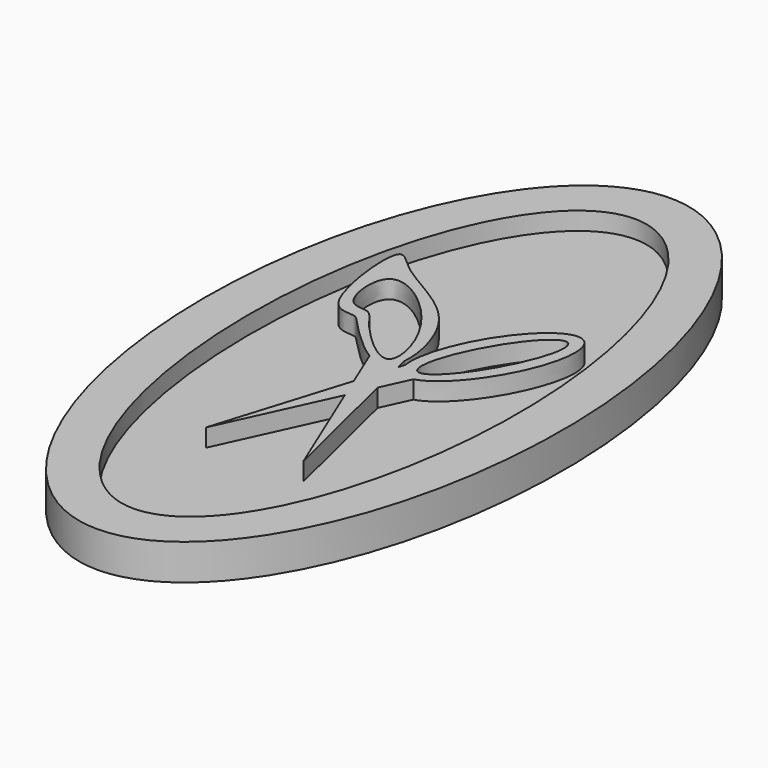
from build123d import *

# Parameters (mm, degrees)
F1_DEPTH = 2.54
F3_DEPTH = 1.27
F5_DEPTH = 1.524


with BuildPart() as f1:
    # F0 (on Top) → F1 (new body)
    with BuildSketch(Plane.XY):
        with BuildLine():
            add(Edge.make_bspline(
                [(0, -25.4), (21.9970452561, -25.4), (10.9985226281, 12.7), (0, 50.8), (-10.9985226281, 12.7), (-21.9970452561, -25.4), (0, -25.4)],
                knots=[0, 0, 0, 2.0943951024, 2.0943951024, 4.1887902048, 4.1887902048, 6.2831853072, 6.2831853072, 6.2831853072], degree=2, weights=[1, 0.5, 1, 0.5, 1, 0.5, 1]))
        make_face()
    extrude(amount=F1_DEPTH)

    # F2 (on face) → F3 (cut)
    with BuildSketch(Plane.XY.offset(2.54)):
        with BuildLine():
            add(Edge.make_bspline(
                [(0, 22.225), (-16.4977839421, 22.225), (-8.248891971, -11.1125), (0, -44.45), (8.248891971, -11.1125), (16.4977839421, 22.225), (0, 22.225)],
                knots=[0, 0, 0, 2.0943951024, 2.0943951024, 4.1887902048, 4.1887902048, 6.2831853072, 6.2831853072, 6.2831853072], degree=2, weights=[1, 0.5, 1, 0.5, 1, 0.5, 1]))
        make_face()
    extrude(amount=-F3_DEPTH, mode=Mode.SUBTRACT)

    # F4 (on face) → F5 (join)
    with BuildSketch(Plane.XY.offset(2.54)):
        with BuildLine():
            add(Edge.make_bspline(
                [(0.6860438475, 0.9545434875), (0.7996234857, 2.1607432292), (-0.4319348292, 7.2345888125), (-5.7333299278, 8.9791487851), (-7.3120661829, 11.090392902), (-7.5713020162, 10.7260432266)],
                knots=[0.5861109288, 0.5861109288, 0.5861109288, 0.5861109288, 0.7046767141, 0.8989197638, 1, 1, 1, 1], degree=3))
            add(Edge.make_bspline(
                [(-7.5713020162, 10.7260432266), (-8.0621440854, 10.0361766048), (-7.2897990447, 3.1838316578), (-4.8401825191, 3.6306384153), (-4.410895876, 3.0337005261), (-2.2907774828, 0.9019950954), (-1.2098269229, 0.2376647049)],
                knots=[0, 0, 0, 0, 0.1913872463, 0.2859264494, 0.3602997552, 0.4747041638, 0.4747041638, 0.4747041638, 0.4747041638], degree=3))
            add(Edge.make_bspline(
                [(-1.2098269229, 0.2376647049), (-0.6952717942, -0.0785704887), (0.2628386826, -0.4345985633), (0.6314908564, 0.3751984145), (0.6860438475, 0.9545434875)],
                knots=[0.4747041638, 0.4747041638, 0.4747041638, 0.4747041638, 0.5291630608, 0.5861109288, 0.5861109288, 0.5861109288, 0.5861109288], degree=3))
        make_face()
        with BuildLine():
            add(Edge.make_bspline(
                [(-6.1286282198, 8.0882474855), (-5.2259672363, 8.8579934198), (-0.5655987622, 5.4839060661), (0.9221578949, -1.4096325762), (-3.8368287749, 3.169533463), (-4.4721663862, 4.5899837757), (-6.4467532612, 4.1507494527), (-6.8103945607, 7.5068698934), (-6.1286282198, 8.0882474855)],
                knots=[0, 0, 0, 0, 0.2224471318, 0.4168941435, 0.6070125439, 0.7246085205, 0.8319890082, 1, 1, 1, 1], degree=3))
        make_face(mode=Mode.SUBTRACT)
        with BuildLine():
            add(Edge.make_bspline(
                [(-1.2098269229, 0.2376647049), (-0.6952717942, -0.0785704887), (0.2628386826, -0.4345985633), (0.6314908564, 0.3751984145), (0.6860438475, 0.9545434875)],
                knots=[0.4747041638, 0.4747041638, 0.4747041638, 0.4747041638, 0.5291630608, 0.5861109288, 0.5861109288, 0.5861109288, 0.5861109288], degree=3))
            Line((-1.2098269229, 0.2376647049), (-0.0044423609, -2.674096377))
            Line((-0.0044423609, -2.674096377), (0.8750719951, 0.1774601439))
            Line((0.8750719951, 0.1774601439), (0.6860438475, 0.9545434875))
        make_face()
        Polygon((0.8750719951, 0.1774601439), (-0.0044423609, -2.674096377), (0.6699721306, -4.3032311205), (1.5163156669, -2.4586540161), align=None)
        Polygon((0.6699721306, -4.3032311205), (-0.0044423609, -2.674096377), (-2.9205202591, -12.1285878122), align=None)
        with BuildLine():
            Line((1.014265628, 0.6287529609), (0.8750719951, 0.1774601439))
            Line((0.8750719951, 0.1774601439), (1.5163156669, -2.4586540161))
            Line((1.5163156669, -2.4586540161), (2.4416587933, -0.441899978))
            add(Edge.make_bspline(
                [(1.5954042849, -0.3801568201), (1.9446535264, -0.572289438), (2.4416587933, -0.441899978)],
                knots=[0, 0, 0, 0.3631664302, 0.3631664302, 0.3631664302], degree=2, weights=[1, 0.9835590176, 1]))
            add(Edge.make_bspline(
                [(1.014265628, 0.6287529609), (1.1335978863, -0.1261030906), (1.5954042849, -0.3801568201)],
                knots=[5.8068440318, 5.8068440318, 5.8068440318, 6.2831853072, 6.2831853072, 6.2831853072], degree=2, weights=[1, 0.9717711935, 1]))
        make_face()
        Polygon((1.5163156669, -2.4586540161), (0.6699721306, -4.3032311205), (3.8103061567, -11.8891109213), align=None)
        with BuildLine():
            add(Edge.make_bspline(
                [(2.4416587933, -0.441899978), (5.9042730248, 0.466517759), (7.2637410545, 6.2237736061), (8.6232090841, 11.9810294533), (4.5043634376, 8.2935157255), (0.385517791, 4.6060019977), (1.014265628, 0.6287529609)],
                knots=[0.3631664302, 0.3631664302, 0.3631664302, 2.1777256307, 2.1777256307, 3.9922848312, 3.9922848312, 5.8068440318, 5.8068440318, 5.8068440318], degree=2, weights=[1, 0.6158912416, 1, 0.6158912416, 1, 0.6158912416, 1]))
            add(Edge.make_bspline(
                [(1.014265628, 0.6287529609), (1.1335978863, -0.1261030906), (1.5954042849, -0.3801568201)],
                knots=[5.8068440318, 5.8068440318, 5.8068440318, 6.2831853072, 6.2831853072, 6.2831853072], degree=2, weights=[1, 0.9717711935, 1]))
            add(Edge.make_bspline(
                [(1.5954042849, -0.3801568201), (1.9446535264, -0.572289438), (2.4416587933, -0.441899978)],
                knots=[0, 0, 0, 0.3631664302, 0.3631664302, 0.3631664302], degree=2, weights=[1, 0.9835590176, 1]))
        make_face()
        with BuildLine():
            add(Edge.make_bspline(
                [(2.0498848533, 0.4207834357), (3.9300924777, -0.6069820196), (6.2302214534, 5.8346251331), (8.5303504292, 12.2762322857), (4.350013829, 6.8623905884), (0.1696772289, 1.4485488911), (2.0498848533, 0.4207834357)],
                knots=[0, 0, 0, 2.0943951024, 2.0943951024, 4.1887902048, 4.1887902048, 6.2831853072, 6.2831853072, 6.2831853072], degree=2, weights=[1, 0.5, 1, 0.5, 1, 0.5, 1]))
        make_face(mode=Mode.SUBTRACT)
    extrude(amount=-F5_DEPTH)


solid = f1.part
